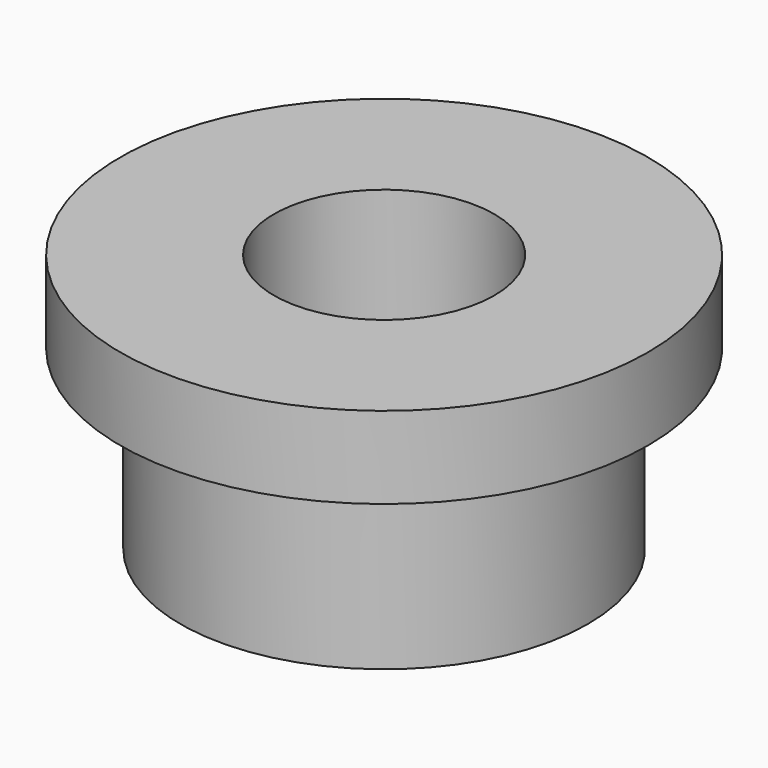
from build123d import *

# Parameters (mm, degrees)
F3_R     = 4.3
F4_DEPTH = 10.101


with BuildPart() as f1:
    # F0 (on Front) → F1 (revolve)
    with BuildSketch(Plane.XZ):
        Polygon((10.3, 0), (0, 0), (0, -10.1), (7.95, -10.1), (7.95, -3.2), (10.3, -3.2), align=None)
    revolve(axis=Axis((0, 0, -5.05), (0, 0, -1)))

    # F3 (on offset) → F4 (cut, through all)
    with BuildSketch(Plane(origin=(0, 0, -10.1), x_dir=(1, 0, 0), z_dir=(0, 0, -1))):
        Circle(F3_R)
    extrude(amount=-F4_DEPTH, mode=Mode.SUBTRACT)


solid = f1.part
